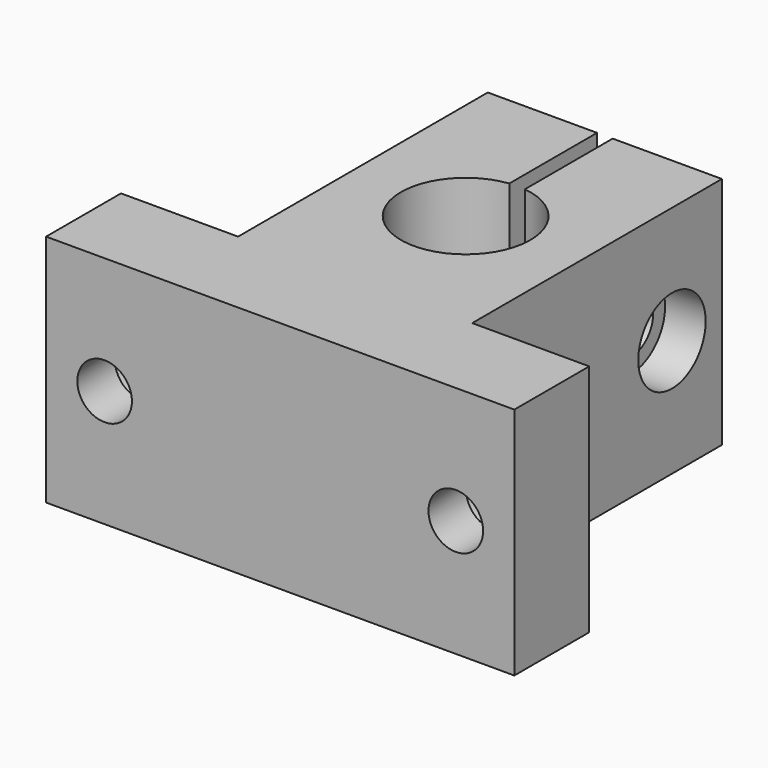
from build123d import *

# Parameters (mm, degrees)
F0_R      = 4.15
F1_DEPTH  = 15
F2_W      = 1
F2_H      = 15
F3_DEPTH  = 10
F6_D      = 3.5
F7_R      = 1.75
F8_DEPTH  = 25
F4_R      = 1.75
F9_DEPTH  = 22.501
F10_R     = 1.75
F11_DEPTH = 2.5
F4_R_2    = 2.7
F12_DEPTH = 2.6
F7_R_2    = 2.7
F13_DEPTH = 3
F5_R      = 2.7
F5_R_2    = 1.75
F14_DEPTH = 3


with BuildPart() as f1:
    # F0 (on Top) → F1 (new body)
    with BuildSketch(Plane.XY):
        Polygon((7.5, 10), (-7.5, 10), (-7.5, -10), (-15, -10), (-15, -16), (15, -16), (15, -10), (7.5, -10), align=None)
        with Locations((0, -1.15)):
            Circle(F0_R, mode=Mode.SUBTRACT)
    extrude(amount=F1_DEPTH)

    # F2 (on face) → F3 (cut)
    with BuildSketch(Plane(origin=(0, 10, 0), x_dir=(-1, 0, 0), z_dir=(0, 1, 0))):
        with Locations((0, 7.5)):
            Rectangle(F2_W, F2_H)
    extrude(amount=-F3_DEPTH, mode=Mode.SUBTRACT)

    # F6 (through all)
    with Locations(Plane(origin=(0, -10, 0), x_dir=(-1, 0, 0), z_dir=(0, 1, 0))):
        with Locations((-11.25, 7.5)):
            Hole(F6_D / 2)

    # F7 (on face) → F8 (cut)
    with BuildSketch(Plane(origin=(0, -10, 0), x_dir=(-1, 0, 0), z_dir=(0, 1, 0))):
        with Locations((11.25, 7.5)):
            Circle(F7_R)
    extrude(amount=-F8_DEPTH, mode=Mode.SUBTRACT)

    # F4 (on face) → F9 (cut, through all)
    with BuildSketch(Plane.YZ.offset(7.5)):
        with Locations((6, 7.5)):
            Circle(F4_R)
    extrude(amount=-F9_DEPTH, mode=Mode.SUBTRACT)

    # F10 (on face) → F11 (cut)
    with BuildSketch(Plane(origin=(-7.5, 0, 0), x_dir=(0, -1, 0), z_dir=(-1, 0, 0))):
        Polygon((-7.151114, 10.521303), (-9.192082, 8.013758), (-8.040968, 4.992455), (-4.848886, 4.478697), (-2.807918, 6.986242), (-3.959032, 10.007545), align=None)
        with Locations((-6, 7.5)):
            Circle(F10_R, mode=Mode.SUBTRACT)
    extrude(amount=-F11_DEPTH, mode=Mode.SUBTRACT)

    # F4 (on face) → F12 (cut)
    with BuildSketch(Plane.YZ.offset(7.5)):
        with Locations((6, 7.5)):
            Circle(F4_R_2)
        with Locations((6, 7.5)):
            Circle(F4_R, mode=Mode.SUBTRACT)
    extrude(amount=-F12_DEPTH, mode=Mode.SUBTRACT)

    # F7 (on face) → F13 (cut)
    with BuildSketch(Plane(origin=(0, -10, 0), x_dir=(-1, 0, 0), z_dir=(0, 1, 0))):
        with Locations((11.25, 7.5)):
            Circle(F7_R_2)
        with Locations((11.25, 7.5)):
            Circle(F7_R, mode=Mode.SUBTRACT)
    extrude(amount=-F13_DEPTH, mode=Mode.SUBTRACT)

    # F5 (on face) → F14 (cut)
    with BuildSketch(Plane(origin=(0, -10, 0), x_dir=(-1, 0, 0), z_dir=(0, 1, 0))):
        with Locations((-11.25, 7.5)):
            Circle(F5_R)
        with Locations((-11.25, 7.5)):
            Circle(F5_R_2, mode=Mode.SUBTRACT)
    extrude(amount=-F14_DEPTH, mode=Mode.SUBTRACT)


solid = f1.part
